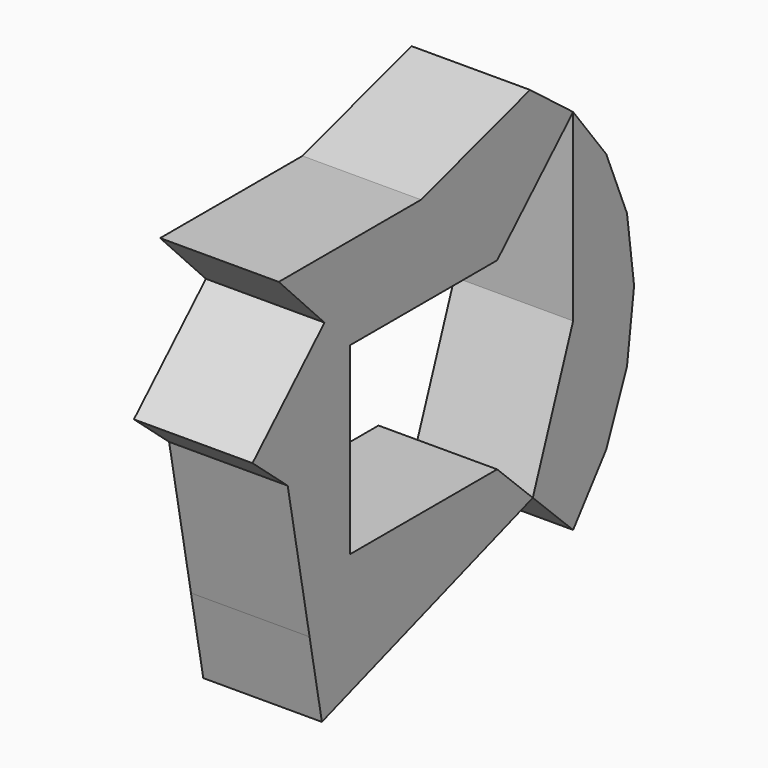
from build123d import *

# Parameters (mm, degrees)
F1_DEPTH = 31.496


with BuildPart() as f1:
    # F0 (on Right) → F1 (new body)
    with BuildSketch(Plane.YZ):
        Polygon((0, 48.858318), (-47.241594, 48.858318), (-32.061037, 33.158244), (-23.620797, 24.429159), (25.23752, 24.429159), (50.475041, 48.858318), (36.164771, 59.838974), align=None)
        Polygon((-23.620797, -24.429159), (-37.018016, -38.284863), (-32.931324, -59.838974), (37.085249, -35.897402), (25.23752, -24.429159), align=None)
        Polygon((-32.061037, 33.158244), (-55.961672, 10.02315), (-44.276882, 0), (-37.018016, -38.284863), (-23.620797, -24.429159), (-23.620797, 24.429159), align=None)
        Polygon((50.475041, 0), (37.085249, -35.897402), (50.475041, -48.858318), (61.455697, -34.548048), (68.358426, -17.883385), (70.712819, 0), (68.358426, 17.883385), (61.455697, 34.548048), (50.475041, 48.858318), align=None)
    extrude(amount=F1_DEPTH)


solid = f1.part
